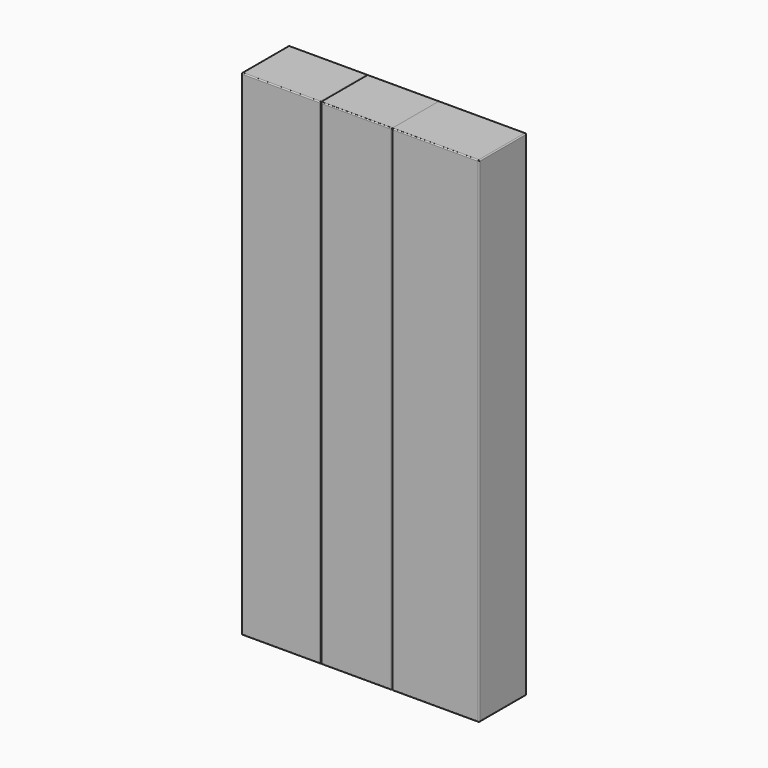
from build123d import *

# Parameters (mm, degrees)
F0_W     = 40
F0_H     = 250
F3_DEPTH = 30
F1_W     = 36
F1_H     = 250
F4_DEPTH = 30
F2_W     = 44
F2_H     = 250
F5_DEPTH = 30
F6_R     = 0.5
F6_2_R   = 0.5
F6_3_R   = 0.5


with BuildPart() as f3:
    # F0 (on Front) → F3 (new body)
    with BuildSketch(Plane.XZ):
        with Locations((-20, 125)):
            Rectangle(F0_W, F0_H)
    extrude(amount=F3_DEPTH)

    # F6#3
    f6_3_edges = [f3.edges().sort_by_distance(p)[0] for p in [
        (0, -30, 125),
        (-40, -30, 125),
        (-20, -30, 0),
        (-20, -30, 250),
        (0, -15, 250),
        (-40, -15, 250),
        (-20, 0, 250),
        (0, 0, 125),
        (-40, 0, 125),
        (-20, 0, 0),
        (-40, -15, 0),
        (0, -15, 0),
    ]]
    fillet(f6_3_edges, radius=F6_3_R)


with BuildPart() as f4:
    # F1 (on Front) → F4 (new body)
    with BuildSketch(Plane.XZ):
        with Locations((18, 125)):
            Rectangle(F1_W, F1_H)
    extrude(amount=F4_DEPTH)

    # F6#2
    f6_2_edges = [f4.edges().sort_by_distance(p)[0] for p in [
        (36, -30, 125),
        (0, -30, 125),
        (18, -30, 0),
        (18, -30, 250),
        (36, 0, 125),
        (0, 0, 125),
        (18, 0, 0),
        (18, 0, 250),
        (36, -15, 0),
        (0, -15, 0),
    ]]
    fillet(f6_2_edges, radius=F6_2_R)


with BuildPart() as f5:
    # F2 (on Front) → F5 (new body)
    with BuildSketch(Plane.XZ):
        with Locations((58, 125)):
            Rectangle(F2_W, F2_H)
    extrude(amount=F5_DEPTH)

    # F6
    f6_edges = [f5.edges().sort_by_distance(p)[0] for p in [
        (80, -30, 125),
        (36, -30, 125),
        (58, -30, 0),
        (58, -30, 250),
        (36, 0, 125),
        (58, 0, 0),
        (80, 0, 125),
        (58, 0, 250),
        (80, -15, 0),
        (80, -15, 250),
        (36, -15, 0),
    ]]
    fillet(f6_edges, radius=F6_R)


solid = Compound([f3.part, f4.part, f5.part])
